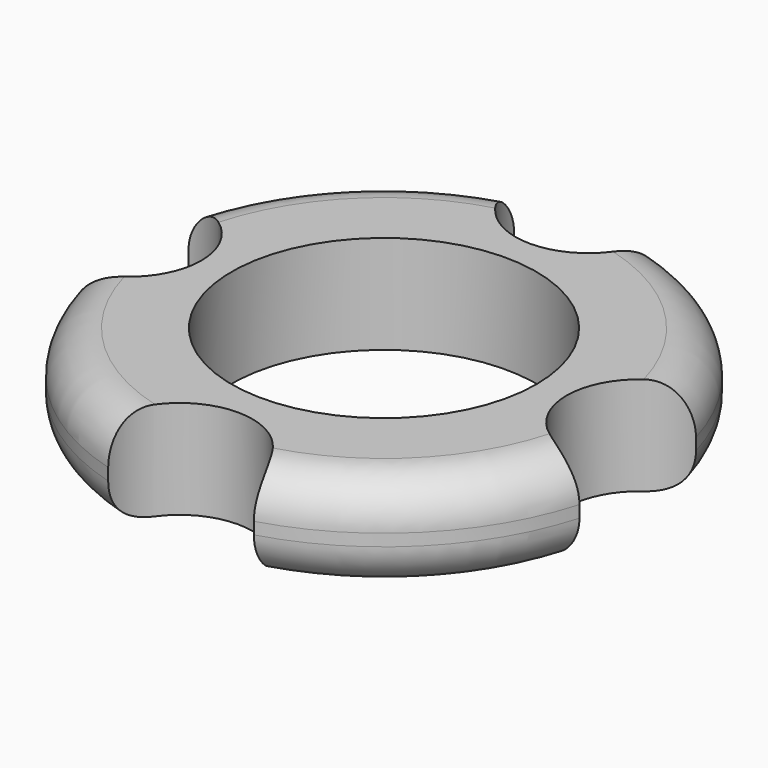
from build123d import *

# Parameters (mm, degrees)
F0_R     = 10.9982
F1_DEPTH = 7.112
F2_R     = 3.1242


with BuildPart() as f1:
    # F0 (on Top) → F1 (new body)
    with BuildSketch(Plane.XY):
        with BuildLine():
            ThreePointArc((5.256284, 18.310488), (0, 13.178931), (-5.256284, 18.310488))
            ThreePointArc((-5.256284, 18.310488), (-13.470691, 13.470078), (-18.310727, 5.255451))
            ThreePointArc((-18.310727, 5.255451), (-13.17977, 0), (-18.310727, -5.255451))
            ThreePointArc((-18.310727, -5.255451), (-13.470691, -13.470078), (-5.256284, -18.310488))
            ThreePointArc((-5.256284, -18.310488), (0, -13.178933), (5.256284, -18.310488))
            ThreePointArc((5.256284, -18.310488), (13.47069, -13.470078), (18.310727, -5.255452))
            ThreePointArc((18.310727, -5.255452), (13.179773, 0), (18.310727, 5.255452))
            ThreePointArc((18.310727, 5.255452), (13.47069, 13.470078), (5.256284, 18.310488))
        make_face()
        Circle(F0_R, mode=Mode.SUBTRACT)
    extrude(amount=F1_DEPTH)

    # F2
    f2_edges = [f1.edges().sort_by_distance(p)[0] for p in [
        (-13.470691, 13.470078, 7.112),
        (-13.470691, -13.470078, 7.112),
        (13.47069, -13.470078, 7.112),
        (13.47069, 13.470078, 7.112),
        (13.47069, 13.470078, 0),
        (-13.470691, 13.470078, 0),
        (-13.470691, -13.470078, 0),
        (13.47069, -13.470078, 0),
    ]]
    fillet(f2_edges, radius=F2_R)


solid = f1.part
